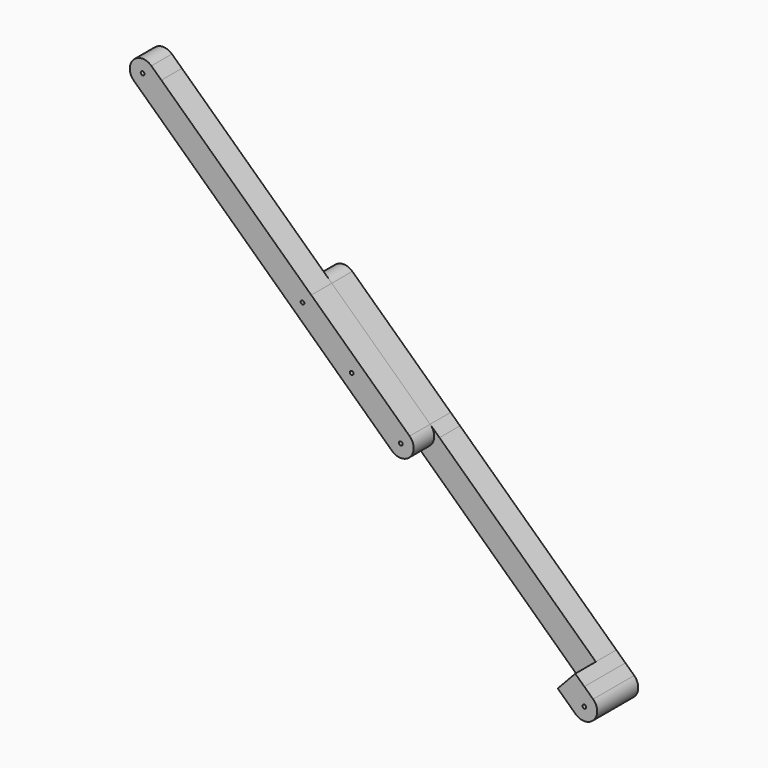
from build123d import *

# Parameters (mm, degrees)
F0_R     = 3.5
F1_DEPTH = 48
F2_DEPTH = 48
F3_DEPTH = 48


with BuildPart() as f1:
    # F0 (on Front) → F1 (new body)
    with BuildSketch(Plane.XZ):
        with BuildLine():
            ThreePointArc((-113.535628, 35.385926), (-114.638132, 69.30914), (-80.714918, 70.411645))
            Line((-80.714918, 70.411645), (-360.988833, 333.041197))
            Line((-360.988833, 333.041197), (-379.678267, 350.554056))
            ThreePointArc((-379.678267, 350.554056), (-413.601481, 349.451552), (-412.498977, 315.528337))
            Line((-412.498977, 315.528337), (-382.240386, 287.174646))
            Line((-382.240386, 287.174646), (-131.048487, 51.796281))
            Line((-131.048487, 51.796281), (-113.535628, 35.385926))
        make_face()
        with Locations((-396.088622, 333.041197)):
            Circle(F0_R, mode=Mode.SUBTRACT)
        with BuildLine():
            ThreePointArc((70.349397, -136.922802), (104.272612, -135.820298), (103.170107, -101.897083))
            Line((103.170107, -101.897083), (-80.714918, 70.411645))
            ThreePointArc((-80.714918, 70.411645), (-114.638132, 69.30914), (-113.535628, 35.385926))
            Line((-113.535628, 35.385926), (-113.401737, 35.260464))
            Line((-113.401737, 35.260464), (70.349397, -136.922802))
        make_face()
        with BuildLine():
            ThreePointArc((89.04078, -116.75534), (89.940443, -117.949394), (90.259752, -119.409943))
            ThreePointArc((90.259752, -119.409943), (89.29627, -121.821597), (86.936279, -122.905488))
            ThreePointArc((86.936279, -122.905488), (83.448261, -118.276794), (89.04078, -116.75534))
        make_face(mode=Mode.SUBTRACT)
        with Locations((-5.182761, -33.255579)):
            Circle(F0_R, mode=Mode.SUBTRACT)
        with BuildLine():
            ThreePointArc((-94.732096, 55.452744), (-93.913878, 54.290525), (-93.625273, 52.898785))
            ThreePointArc((-93.625273, 52.898785), (-95.721267, 49.692733), (-99.498855, 50.326605))
            ThreePointArc((-99.498855, 50.326605), (-99.688361, 55.282182), (-94.732096, 55.452744))
        make_face(mode=Mode.SUBTRACT)
    extrude(amount=F1_DEPTH)


with BuildPart() as f2:
    # F0 (on Front) → F2 (new body)
    with BuildSketch(Plane.XZ):
        with BuildLine():
            ThreePointArc((70.349397, -136.922802), (104.272612, -135.820298), (103.170107, -101.897083))
            Line((103.170107, -101.897083), (-80.714918, 70.411645))
            ThreePointArc((-80.714918, 70.411645), (-114.638132, 69.30914), (-113.535628, 35.385926))
            Line((-113.535628, 35.385926), (-113.401737, 35.260464))
            Line((-113.401737, 35.260464), (70.349397, -136.922802))
        make_face()
        with BuildLine():
            ThreePointArc((89.04078, -116.75534), (89.940443, -117.949394), (90.259752, -119.409943))
            ThreePointArc((90.259752, -119.409943), (89.29627, -121.821597), (86.936279, -122.905488))
            ThreePointArc((86.936279, -122.905488), (83.448261, -118.276794), (89.04078, -116.75534))
        make_face(mode=Mode.SUBTRACT)
        with Locations((-5.182761, -33.255579)):
            Circle(F0_R, mode=Mode.SUBTRACT)
        with BuildLine():
            ThreePointArc((-94.732096, 55.452744), (-93.913878, 54.290525), (-93.625273, 52.898785))
            ThreePointArc((-93.625273, 52.898785), (-95.721267, 49.692733), (-99.498855, 50.326605))
            ThreePointArc((-99.498855, 50.326605), (-99.688361, 55.282182), (-94.732096, 55.452744))
        make_face(mode=Mode.SUBTRACT)
        with BuildLine():
            Line((380.187424, -427.255288), (413.008134, -392.229569))
            Line((413.008134, -392.229569), (120.682966, -118.307438))
            Line((120.682966, -118.307438), (103.170107, -101.897083))
            ThreePointArc((103.170107, -101.897083), (104.272612, -135.820298), (70.349397, -136.922802))
            Line((70.349397, -136.922802), (87.862256, -153.333157))
            Line((87.862256, -153.333157), (380.187424, -427.255288))
        make_face()
        with BuildLine():
            Line((429.911378, -408.068686), (413.008134, -392.229569))
            Line((413.008134, -392.229569), (380.187424, -427.255288))
            Line((380.187424, -427.255288), (413.501023, -458.471663))
            ThreePointArc((413.501023, -458.471663), (447.424238, -457.369158), (446.321733, -423.445944))
            Line((446.321733, -423.445944), (429.911378, -408.068686))
        make_face()
        with BuildLine():
            ThreePointArc((433.411378, -440.958803), (427.436504, -443.433677), (429.911378, -437.458803))
            ThreePointArc((429.911378, -437.458803), (432.386252, -438.483929), (433.411378, -440.958803))
        make_face(mode=Mode.SUBTRACT)
    extrude(amount=-F2_DEPTH)

    # F0 (on Front) → F3 (join)
    with BuildSketch(Plane.XZ):
        with BuildLine():
            Line((429.911378, -408.068686), (413.008134, -392.229569))
            Line((413.008134, -392.229569), (380.187424, -427.255288))
            Line((380.187424, -427.255288), (413.501023, -458.471663))
            ThreePointArc((413.501023, -458.471663), (447.424238, -457.369158), (446.321733, -423.445944))
            Line((446.321733, -423.445944), (429.911378, -408.068686))
        make_face()
        with BuildLine():
            ThreePointArc((433.411378, -440.958803), (427.436504, -443.433677), (429.911378, -437.458803))
            ThreePointArc((429.911378, -437.458803), (432.386252, -438.483929), (433.411378, -440.958803))
        make_face(mode=Mode.SUBTRACT)
    extrude(amount=F3_DEPTH)


solid = Compound([f1.part, f2.part])
